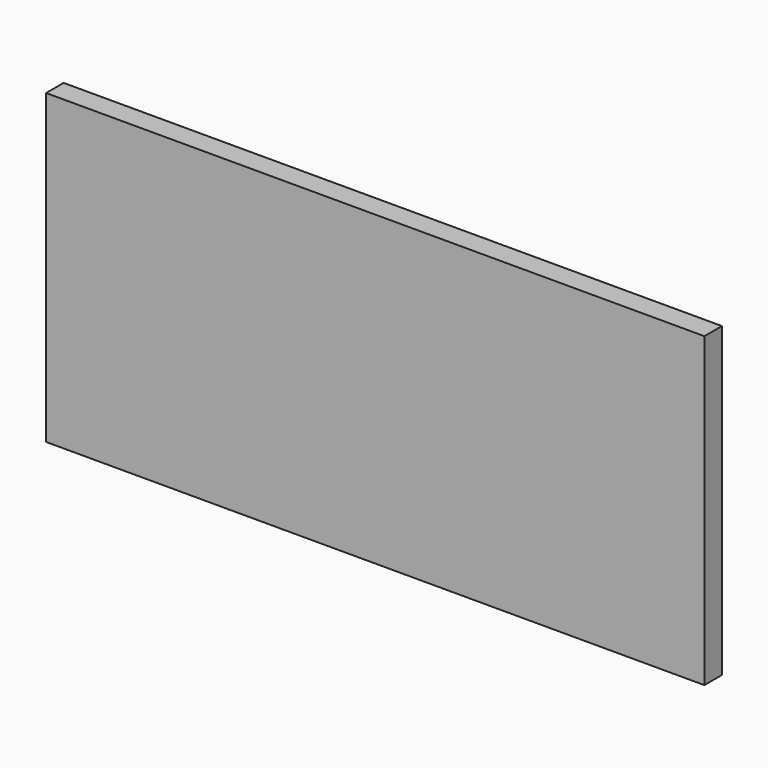
from build123d import *

# Parameters (mm, degrees)
F0_W     = 15000
F0_H     = 7000
F1_DEPTH = 500
F2_W     = 480
F2_H     = 20
F2_H_2   = 27.3
F2_W_2   = 10
F2_H_3   = 486.35
F2_H_4   = 482.7
F2_W_3   = 20
F3_DEPTH = 300


with BuildPart() as f1:
    # F0 (on Front) → F1 (new body)
    with BuildSketch(Plane.XZ):
        Rectangle(F0_W, F0_H)
    extrude(amount=F1_DEPTH)

    # F2 (on face) → F3 (join)
    with BuildSketch(Plane.XZ.offset(500)):
        with Locations((-7250, 3014.6)):
            Rectangle(F2_W, F2_H)
        with Locations((-7250, 2510.95)):
            Rectangle(F2_W, F2_H)
        with Locations((-7250, 2010.95)):
            Rectangle(F2_W, F2_H_2)
        with Locations((-7250, 1510.95)):
            Rectangle(F2_W, F2_H)
        with Locations((-7250, 1007.3)):
            Rectangle(F2_W, F2_H)
        with Locations((-7250, 503.65)):
            Rectangle(F2_W, F2_H)
        with Locations((-7250, 0)):
            Rectangle(F2_W, F2_H)
        with Locations((-7250, -496.35)):
            Rectangle(F2_W, F2_H)
        with Locations((-7250, -992.7)):
            Rectangle(F2_W, F2_H)
        with Locations((-7250, -1496.35)):
            Rectangle(F2_W, F2_H)
        with Locations((-7250, -2000)):
            Rectangle(F2_W, F2_H)
        with Locations((-7250, -2503.65)):
            Rectangle(F2_W, F2_H)
        with Locations((-7495, -2756.825)):
            Rectangle(F2_W_2, F2_H_3)
        with Locations((-7495, -3258.65)):
            Rectangle(F2_W_2, F2_H_4)
        with Locations((-7000, -3258.65)):
            Rectangle(F2_W_3, F2_H_4)
        with Locations((-7000, -2756.825)):
            Rectangle(F2_W_3, F2_H_3)
        with Locations((-6750, -2503.65)):
            Rectangle(F2_W, F2_H)
        with Locations((-6750, -2000)):
            Rectangle(F2_W, F2_H)
        with Locations((-6750, -1496.35)):
            Rectangle(F2_W, F2_H)
        with Locations((-6750, -992.7)):
            Rectangle(F2_W, F2_H)
        with Locations((-6750, -496.35)):
            Rectangle(F2_W, F2_H)
        with Locations((-6750, 0)):
            Rectangle(F2_W, F2_H)
        with Locations((-6750, 503.65)):
            Rectangle(F2_W, F2_H)
        with Locations((-6750, 1007.3)):
            Rectangle(F2_W, F2_H)
        with Locations((-6750, 1510.95)):
            Rectangle(F2_W, F2_H)
        with Locations((-6750, 2010.95)):
            Rectangle(F2_W, F2_H_2)
        with Locations((-6750, 2510.95)):
            Rectangle(F2_W, F2_H)
        with Locations((-6250, 3014.6)):
            Rectangle(F2_W, F2_H)
        with Locations((-6250, 2510.95)):
            Rectangle(F2_W, F2_H)
        with Locations((-6250, 2010.95)):
            Rectangle(F2_W, F2_H_2)
        with Locations((-6250, 1510.95)):
            Rectangle(F2_W, F2_H)
        with Locations((-6250, 1007.3)):
            Rectangle(F2_W, F2_H)
        with Locations((-6250, 503.65)):
            Rectangle(F2_W, F2_H)
        with Locations((-6250, 0)):
            Rectangle(F2_W, F2_H)
        with Locations((-6250, -496.35)):
            Rectangle(F2_W, F2_H)
        with Locations((-250, -496.35)):
            Rectangle(F2_W, F2_H)
        with Locations((250, -496.35)):
            Rectangle(F2_W, F2_H)
        with Locations((250, 0)):
            Rectangle(F2_W, F2_H)
        with Locations((-250, 0)):
            Rectangle(F2_W, F2_H)
        with Locations((-6250, -992.7)):
            Rectangle(F2_W, F2_H)
        with Locations((-6250, -1496.35)):
            Rectangle(F2_W, F2_H)
        with Locations((-6250, -2000)):
            Rectangle(F2_W, F2_H)
        with Locations((-6250, -2503.65)):
            Rectangle(F2_W, F2_H)
        with Locations((-6500, -2756.825)):
            Rectangle(F2_W_3, F2_H_3)
        with Locations((-6500, -3258.65)):
            Rectangle(F2_W_3, F2_H_4)
        with Locations((-6000, -3258.65)):
            Rectangle(F2_W_3, F2_H_4)
        with Locations((-6000, -2756.825)):
            Rectangle(F2_W_3, F2_H_3)
        with Locations((-5750, -2503.65)):
            Rectangle(F2_W, F2_H)
        with Locations((-5750, -2000)):
            Rectangle(F2_W, F2_H)
        with Locations((-5750, -1496.35)):
            Rectangle(F2_W, F2_H)
        with Locations((-5750, -992.7)):
            Rectangle(F2_W, F2_H)
        with Locations((-5750, -496.35)):
            Rectangle(F2_W, F2_H)
        with Locations((-5750, 0)):
            Rectangle(F2_W, F2_H)
        with Locations((-5750, 503.65)):
            Rectangle(F2_W, F2_H)
        with Locations((-5750, 1007.3)):
            Rectangle(F2_W, F2_H)
        with Locations((-5750, 1510.95)):
            Rectangle(F2_W, F2_H)
        with Locations((-5750, 2010.95)):
            Rectangle(F2_W, F2_H_2)
        with Locations((-5750, 2510.95)):
            Rectangle(F2_W, F2_H)
        with Locations((-5750, 3014.6)):
            Rectangle(F2_W, F2_H)
        with Locations((-6750, 3014.6)):
            Rectangle(F2_W, F2_H)
        with Locations((-5250, 3014.6)):
            Rectangle(F2_W, F2_H)
        with Locations((-5250, 2510.95)):
            Rectangle(F2_W, F2_H)
        with Locations((-5250, 2010.95)):
            Rectangle(F2_W, F2_H_2)
        with Locations((-5250, 1510.95)):
            Rectangle(F2_W, F2_H)
        with Locations((-5250, 1007.3)):
            Rectangle(F2_W, F2_H)
        with Locations((-5250, 503.65)):
            Rectangle(F2_W, F2_H)
        with Locations((-5250, 0)):
            Rectangle(F2_W, F2_H)
        with Locations((-5250, -496.35)):
            Rectangle(F2_W, F2_H)
        with Locations((-5250, -992.7)):
            Rectangle(F2_W, F2_H)
        with Locations((-5250, -1496.35)):
            Rectangle(F2_W, F2_H)
        with Locations((-5250, -2000)):
            Rectangle(F2_W, F2_H)
        with Locations((-5250, -2503.65)):
            Rectangle(F2_W, F2_H)
        with Locations((-5500, -2756.825)):
            Rectangle(F2_W_3, F2_H_3)
        with Locations((-5500, -3258.65)):
            Rectangle(F2_W_3, F2_H_4)
        with Locations((-5000, -3258.65)):
            Rectangle(F2_W_3, F2_H_4)
        with Locations((-5000, -2756.825)):
            Rectangle(F2_W_3, F2_H_3)
        with Locations((-4750, -2503.65)):
            Rectangle(F2_W, F2_H)
        with Locations((-4750, -2000)):
            Rectangle(F2_W, F2_H)
        with Locations((-4750, -1496.35)):
            Rectangle(F2_W, F2_H)
        with Locations((-4750, -992.7)):
            Rectangle(F2_W, F2_H)
        with Locations((-4750, -496.35)):
            Rectangle(F2_W, F2_H)
        with Locations((-4750, 0)):
            Rectangle(F2_W, F2_H)
        with Locations((-4750, 503.65)):
            Rectangle(F2_W, F2_H)
        with Locations((-4750, 1007.3)):
            Rectangle(F2_W, F2_H)
        with Locations((-4750, 1510.95)):
            Rectangle(F2_W, F2_H)
        with Locations((-4750, 2010.95)):
            Rectangle(F2_W, F2_H_2)
        with Locations((-4750, 2510.95)):
            Rectangle(F2_W, F2_H)
        with Locations((-4750, 3014.6)):
            Rectangle(F2_W, F2_H)
        with Locations((-4250, 3014.6)):
            Rectangle(F2_W, F2_H)
        with Locations((-4250, 2510.95)):
            Rectangle(F2_W, F2_H)
        with Locations((-4250, 2010.95)):
            Rectangle(F2_W, F2_H_2)
        with Locations((-4250, 1510.95)):
            Rectangle(F2_W, F2_H)
        with Locations((-4250, 503.65)):
            Rectangle(F2_W, F2_H)
        with Locations((-4250, 0)):
            Rectangle(F2_W, F2_H)
        with Locations((-4250, -496.35)):
            Rectangle(F2_W, F2_H)
        with Locations((-4250, -992.7)):
            Rectangle(F2_W, F2_H)
        with Locations((-4250, -1496.35)):
            Rectangle(F2_W, F2_H)
        with Locations((-4250, -2000)):
            Rectangle(F2_W, F2_H)
        with Locations((-4250, -2503.65)):
            Rectangle(F2_W, F2_H)
        with Locations((-4500, -2756.825)):
            Rectangle(F2_W_3, F2_H_3)
        with Locations((-4250, -2503.65)):
            Rectangle(F2_W, F2_H)
        with Locations((-4250, 1007.3)):
            Rectangle(F2_W, F2_H)
        with Locations((-3750, 1007.3)):
            Rectangle(F2_W, F2_H)
        with Locations((-3750, 503.65)):
            Rectangle(F2_W, F2_H)
        with Locations((-3750, 0)):
            Rectangle(F2_W, F2_H)
        with Locations((-3750, -496.35)):
            Rectangle(F2_W, F2_H)
        with Locations((-3750, -992.7)):
            Rectangle(F2_W, F2_H)
        with Locations((-3750, -1496.35)):
            Rectangle(F2_W, F2_H)
        with Locations((-3750, -496.35)):
            Rectangle(F2_W, F2_H)
        with Locations((-3750, -2000)):
            Rectangle(F2_W, F2_H)
        with Locations((-3750, -2503.65)):
            Rectangle(F2_W, F2_H)
        with Locations((-4000, -2756.825)):
            Rectangle(F2_W_3, F2_H_3)
        with Locations((-4000, -3258.65)):
            Rectangle(F2_W_3, F2_H_4)
        with Locations((-3500, -3258.65)):
            Rectangle(F2_W_3, F2_H_4)
        with Locations((-3500, -2756.825)):
            Rectangle(F2_W_3, F2_H_3)
        with Locations((-3250, -2000)):
            Rectangle(F2_W, F2_H)
        with Locations((-3250, -992.7)):
            Rectangle(F2_W, F2_H)
        with Locations((-3250, -496.35)):
            Rectangle(F2_W, F2_H)
        with Locations((-3250, 0)):
            Rectangle(F2_W, F2_H)
        with Locations((-3250, 503.65)):
            Rectangle(F2_W, F2_H)
        with Locations((-3250, 1007.3)):
            Rectangle(F2_W, F2_H)
        with Locations((-3250, 1510.95)):
            Rectangle(F2_W, F2_H)
        with Locations((-3750, 2010.95)):
            Rectangle(F2_W, F2_H_2)
        with Locations((-3250, 2010.95)):
            Rectangle(F2_W, F2_H_2)
        with Locations((-3250, 2510.95)):
            Rectangle(F2_W, F2_H)
        with Locations((-3750, 3014.6)):
            Rectangle(F2_W, F2_H)
        with Locations((-3250, 3014.6)):
            Rectangle(F2_W, F2_H)
        with Locations((-3250, -2503.65)):
            Rectangle(F2_W, F2_H)
        with Locations((-3250, -1496.35)):
            Rectangle(F2_W, F2_H)
        with Locations((-3000, -3258.65)):
            Rectangle(F2_W_3, F2_H_4)
        with Locations((-3000, -2756.825)):
            Rectangle(F2_W_3, F2_H_3)
        with Locations((-2750, -2503.65)):
            Rectangle(F2_W, F2_H)
        with Locations((-2750, -2000)):
            Rectangle(F2_W, F2_H)
        with Locations((-2750, -1496.35)):
            Rectangle(F2_W, F2_H)
        with Locations((-2750, -496.35)):
            Rectangle(F2_W, F2_H)
        with Locations((-2750, 0)):
            Rectangle(F2_W, F2_H)
        with Locations((-2750, 503.65)):
            Rectangle(F2_W, F2_H)
        with Locations((-2750, 1007.3)):
            Rectangle(F2_W, F2_H)
        with Locations((-2750, 1510.95)):
            Rectangle(F2_W, F2_H)
        with Locations((-2750, 2010.95)):
            Rectangle(F2_W, F2_H_2)
        with Locations((-2750, 2510.95)):
            Rectangle(F2_W, F2_H)
        with Locations((-2750, 3014.6)):
            Rectangle(F2_W, F2_H)
        with Locations((-2750, -992.7)):
            Rectangle(F2_W, F2_H)
        with Locations((-2250, -992.7)):
            Rectangle(F2_W, F2_H)
        with Locations((-2250, -1496.35)):
            Rectangle(F2_W, F2_H)
        with Locations((-2250, -2000)):
            Rectangle(F2_W, F2_H)
        with Locations((-2250, -2503.65)):
            Rectangle(F2_W, F2_H)
        with Locations((-2500, -2756.825)):
            Rectangle(F2_W_3, F2_H_3)
        with Locations((-2500, -3258.65)):
            Rectangle(F2_W_3, F2_H_4)
        with Locations((-2000, -3258.65)):
            Rectangle(F2_W_3, F2_H_4)
        with Locations((-2000, -2756.825)):
            Rectangle(F2_W_3, F2_H_3)
        with Locations((-1750, -2503.65)):
            Rectangle(F2_W, F2_H)
        with Locations((-1750, -2000)):
            Rectangle(F2_W, F2_H)
        with Locations((-1750, -1496.35)):
            Rectangle(F2_W, F2_H)
        with Locations((-1750, -992.7)):
            Rectangle(F2_W, F2_H)
        with Locations((-1750, -496.35)):
            Rectangle(F2_W, F2_H)
        with Locations((-2250, -496.35)):
            Rectangle(F2_W, F2_H)
        with Locations((-1750, 0)):
            Rectangle(F2_W, F2_H)
        with Locations((-1750, 503.65)):
            Rectangle(F2_W, F2_H)
        with Locations((-2250, 503.65)):
            Rectangle(F2_W, F2_H)
        with Locations((-2250, 0)):
            Rectangle(F2_W, F2_H)
        with Locations((-2250, 1007.3)):
            Rectangle(F2_W, F2_H)
        with Locations((-1750, 1510.95)):
            Rectangle(F2_W, F2_H)
        with Locations((-2250, 1510.95)):
            Rectangle(F2_W, F2_H)
        with Locations((-2250, 2010.95)):
            Rectangle(F2_W, F2_H_2)
        with Locations((-1750, 2010.95)):
            Rectangle(F2_W, F2_H_2)
        with Locations((-2250, 2510.95)):
            Rectangle(F2_W, F2_H)
        with Locations((-2250, 3014.6)):
            Rectangle(F2_W, F2_H)
        with Locations((-1750, 3014.6)):
            Rectangle(F2_W, F2_H)
    extrude(amount=-F3_DEPTH)


solid = f1.part
